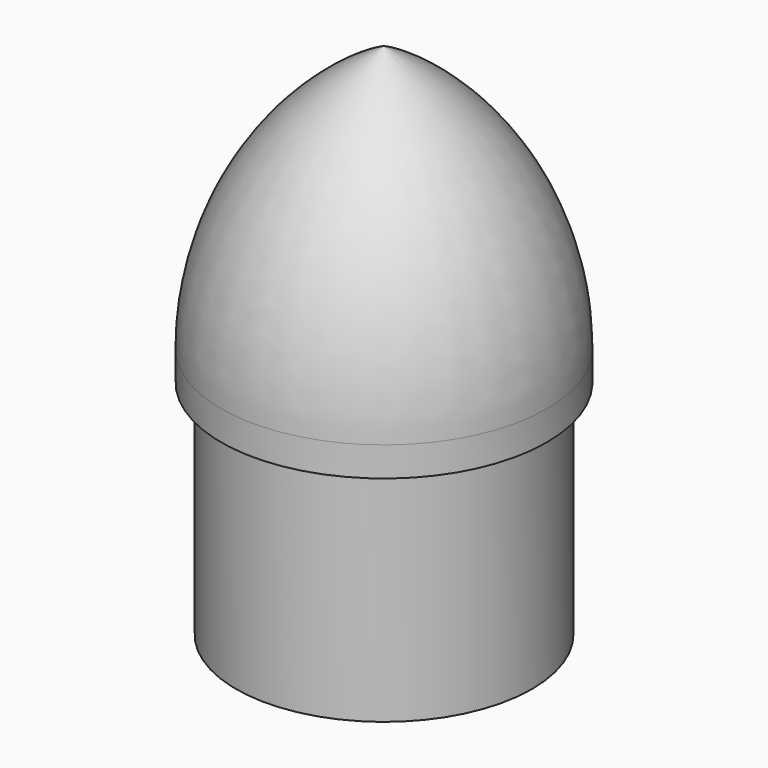
from build123d import *


with BuildPart() as f1:
    # F0 (on Front) → F1 (revolve)
    with BuildSketch(Plane.XZ):
        with BuildLine():
            ThreePointArc((13.97, 21.59), (10.20101, 34.98534), (0, 44.45))
            Line((0, 44.45), (0, 0))
            Line((0, 0), (12.7, 0))
            Line((12.7, 0), (12.7, 19.05))
            Line((12.7, 19.05), (13.97, 19.05))
            Line((13.97, 19.05), (13.97, 21.59))
        make_face()
    revolve(axis=Axis((0, 0, -6.591905), (0, 0, -1)))


solid = f1.part
